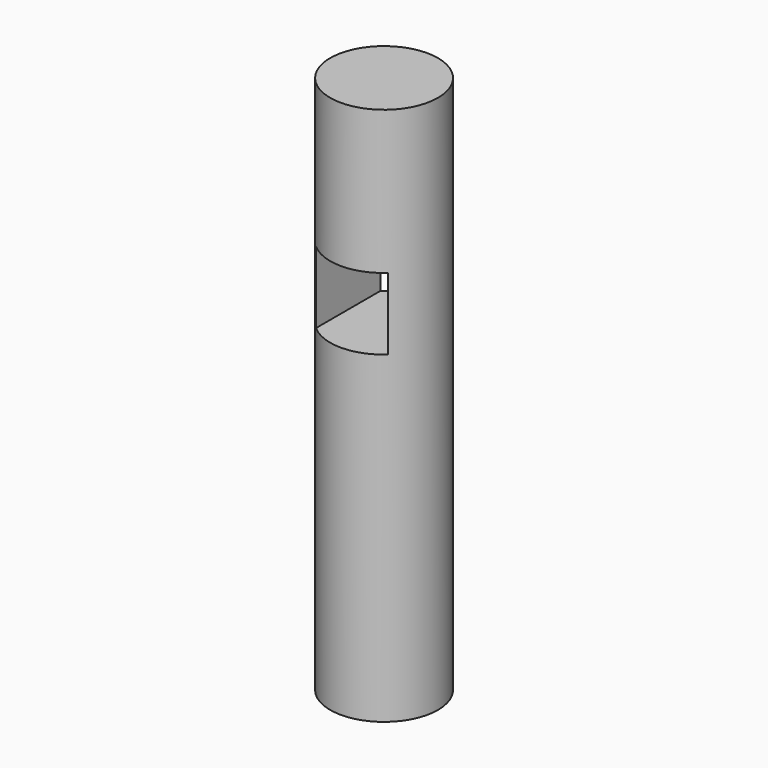
from build123d import *

# Parameters (mm, degrees)
F0_R     = 15
F1_DEPTH = 150
F2_W     = 20
F2_H     = 20
F3_DEPTH = 25


with BuildPart() as f1:
    # F0 (on Top) → F1 (new body)
    with BuildSketch(Plane.XY):
        with Locations((0, 0.877221)):
            Circle(F0_R)
    extrude(amount=F1_DEPTH)

    # F2 (on Front) → F3 (cut, symmetric)
    with BuildSketch(Plane.XZ):
        with Locations((0, 100)):
            Rectangle(F2_W, F2_H)
    extrude(amount=F3_DEPTH, both=True, mode=Mode.SUBTRACT)


solid = f1.part
